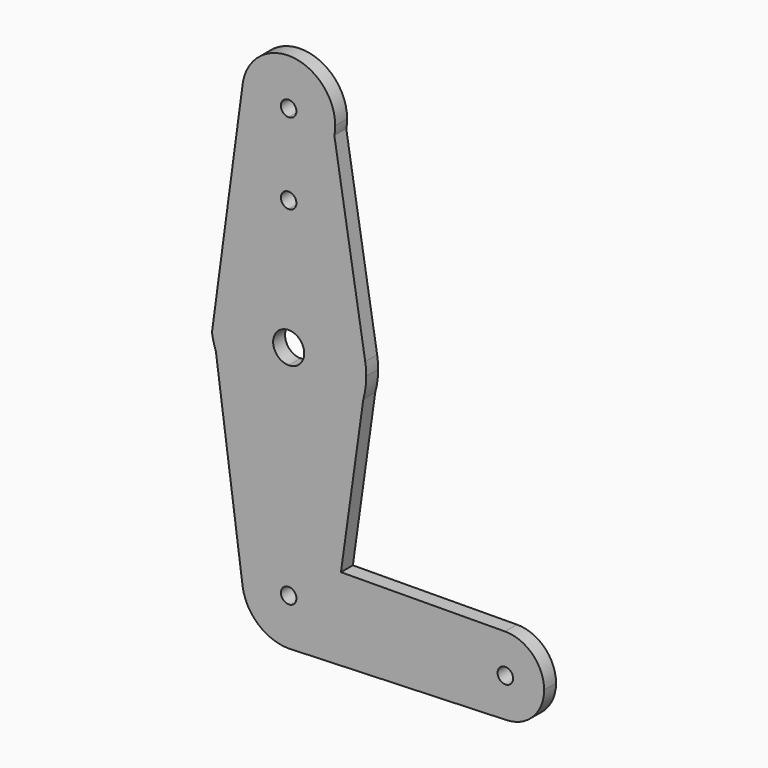
from build123d import *

# Parameters (mm, degrees)
F1_DEPTH = 3.048


with BuildPart() as f1:
    # F0 (on Front) → F1 (new body)
    with BuildSketch(Plane.XZ):
        with BuildLine():
            Line((0, 28.1219437212), (0, 33.5548328109))
            ThreePointArc((0, 33.5548328109), (-7.0011965198, 36.6215921611), (-9.4940497557, 43.8470643509))
            Line((-9.4940497557, 43.8470643509), (-14.5120441123, 6.4355419883))
            ThreePointArc((-14.5120441123, 6.4355419883), (-8.655963145, 13.3075139313), (0, 15.875))
            Line((0, 15.875), (0, 24.9469437212))
            ThreePointArc((0, 24.9469437212), (-1.5875, 26.5344437212), (0, 28.1219437212))
        make_face()
        with BuildLine():
            ThreePointArc((-9.4940497557, 43.8470643509), (-7.0011965198, 36.6215921611), (0, 33.5548328109))
            ThreePointArc((0, 33.5548328109), (6.055219513, 35.7272862011), (9.3483010398, 41.2536639606))
            ThreePointArc((9.3483010398, 41.2536639606), (9.480722346, 42.1624840233), (9.525, 43.0798328109))
            ThreePointArc((9.525, 43.0798328109), (0.3839277776, 52.5970921045), (-9.4940497557, 43.8470643509))
        make_face()
        with BuildLine():
            ThreePointArc((1.5875, 43.0798328109), (1.1225320151, 41.9573007958), (0, 41.4923328109))
            ThreePointArc((0, 41.4923328109), (-1.1225320151, 44.2023648261), (1.5875, 43.0798328109))
        make_face(mode=Mode.SUBTRACT)
        with BuildLine():
            ThreePointArc((9.3483010398, 41.2536639606), (6.055219513, 35.7272862011), (0, 33.5548328109))
            Line((0, 33.5548328109), (0, 28.1219437212))
            ThreePointArc((0, 28.1219437212), (1.1225320151, 27.6569757363), (1.5875, 26.5344437212))
            ThreePointArc((1.5875, 26.5344437212), (1.1225320151, 25.411911706), (0, 24.9469437212))
            Line((0, 24.9469437212), (0, 15.875))
            ThreePointArc((0, 15.875), (10.2809992556, 12.0961431583), (15.6674568575, 2.558597393))
            Line((15.6674568575, 2.558597393), (9.3483010398, 41.2536639606))
        make_face()
        with BuildLine():
            ThreePointArc((15.875, 0), (15.8230291445, 1.2835005625), (15.6674568575, 2.558597393))
            ThreePointArc((15.6674568575, 2.558597393), (10.2809992556, 12.0961431583), (0, 15.875))
            Line((0, 15.875), (0, 3.175))
            ThreePointArc((0, 3.175), (2.2450640303, 2.2450640303), (3.175, 0))
            ThreePointArc((3.175, 0), (2.2450640303, -2.2450640303), (0, -3.175))
            Line((0, -3.175), (0, -15.875))
            ThreePointArc((0, -15.875), (9.5773172553, -12.6605931611), (15.2761596654, -4.3190937564))
            ThreePointArc((15.2761596654, -4.3190937564), (15.7245772549, -2.1802053013), (15.875, 0))
        make_face()
        with BuildLine():
            ThreePointArc((0, 15.875), (-8.655963145, 13.3075139313), (-14.5120441123, 6.4355419883))
            Line((-14.5120441123, 6.4355419883), (-15.6949904948, -2.3838830444))
            ThreePointArc((-15.6949904948, -2.3838830444), (-15.3752760195, -3.951773314), (-14.8993476116, -5.4795132768))
            ThreePointArc((-14.8993476116, -5.4795132768), (-9.0837313845, -13.0192722198), (0, -15.875))
            Line((0, -15.875), (0, -3.175))
            ThreePointArc((0, -3.175), (-3.175, 0), (0, 3.175))
            Line((0, 3.175), (0, 15.875))
        make_face()
        with BuildLine():
            ThreePointArc((0, -15.875), (-9.0837313845, -13.0192722198), (-14.8993476116, -5.4795132768))
            Line((-14.8993476116, -5.4795132768), (-9.4394359543, -45.9385966374))
            ThreePointArc((-9.4394359543, -45.9385966374), (-7.1714354085, -38.3960912017), (0, -35.1397544709))
            Line((0, -35.1397544709), (0, -15.875))
        make_face()
        with BuildLine():
            Line((10.6975523741, -36.9681615729), (15.2761596654, -4.3190937564))
            ThreePointArc((15.2761596654, -4.3190937564), (9.5773172553, -12.6605931611), (0, -15.875))
            Line((0, -15.875), (0, -35.1397544709))
            ThreePointArc((0, -35.1397544709), (2.9798902503, -35.6178832384), (5.660615933, -37.0042680464))
            Line((5.660615933, -37.0042680464), (10.6975523741, -36.9681615729))
        make_face()
        with BuildLine():
            ThreePointArc((5.660615933, -37.0042680464), (2.9798902503, -35.6178832384), (0, -35.1397544709))
            Line((0, -35.1397544709), (0, -43.0772544709))
            ThreePointArc((0, -43.0772544709), (1.1225320151, -43.5422224557), (1.5875, -44.6647544709))
            Line((1.5875, -44.6647544709), (9.525, -44.6647544709))
            ThreePointArc((9.525, -44.6647544709), (8.5042046001, -40.374751077), (5.660615933, -37.0042680464))
        make_face()
        with BuildLine():
            ThreePointArc((0, -35.1397544709), (-7.1714354085, -38.3960912017), (-9.4394359543, -45.9385966374))
            ThreePointArc((-9.4394359543, -45.9385966374), (-6.2686632691, -51.8361898794), (0, -54.1897544709))
            Line((0, -54.1897544709), (0.6791137982, -54.1655138852))
            ThreePointArc((0.6791137982, -54.1655138852), (6.9711614501, -51.155404133), (9.525, -44.6647544709))
            Line((9.525, -44.6647544709), (1.5875, -44.6647544709))
            ThreePointArc((1.5875, -44.6647544709), (-1.1225320151, -45.787286486), (0, -43.0772544709))
            Line((0, -43.0772544709), (0, -35.1397544709))
        make_face()
        with BuildLine():
            Line((9.6182052834, -44.6647544709), (10.6975523741, -36.9681615729))
            Line((10.6975523741, -36.9681615729), (5.660615933, -37.0042680464))
            ThreePointArc((5.660615933, -37.0042680464), (8.5042046001, -40.374751077), (9.525, -44.6647544709))
            Line((9.525, -44.6647544709), (9.6182052834, -44.6647544709))
        make_face()
        with BuildLine():
            Line((44.2762012087, -36.7274583976), (10.6975523741, -36.9681615729))
            Line((10.6975523741, -36.9681615729), (9.6182052834, -44.6647544709))
            Line((9.6182052834, -44.6647544709), (36.3955984465, -44.6647544709))
            ThreePointArc((36.3955984465, -44.6647544709), (38.7003580799, -39.0722467854), (44.2762012087, -36.7274583976))
        make_face()
        with BuildLine():
            Line((36.3955984465, -44.6647544709), (9.6182052834, -44.6647544709))
            Line((9.6182052834, -44.6647544709), (9.525, -44.6647544709))
            ThreePointArc((9.525, -44.6647544709), (6.9711614501, -51.155404133), (0.6791137982, -54.1655138852))
            Line((0.6791137982, -54.1655138852), (44.6162427329, -52.5972027413))
            ThreePointArc((44.6162427329, -52.5972027413), (38.8214540242, -50.3766440016), (36.3955984465, -44.6647544709))
        make_face()
        with BuildLine():
            ThreePointArc((52.2705984465, -44.6647544709), (49.925606132, -39.0320141043), (44.2762012087, -36.7274583976))
            ThreePointArc((44.2762012087, -36.7274583976), (38.7003580799, -39.0722467854), (36.3955984465, -44.6647544709))
            ThreePointArc((36.3955984465, -44.6647544709), (38.8214540242, -50.3766440016), (44.6162427329, -52.5972027413))
            ThreePointArc((44.6162427329, -52.5972027413), (50.0449879773, -50.1763988932), (52.2705984465, -44.6647544709))
        make_face()
        with BuildLine():
            ThreePointArc((45.9205984465, -44.6647544709), (44.3330984465, -46.2522544709), (42.7455984465, -44.6647544709))
            ThreePointArc((42.7455984465, -44.6647544709), (44.3330984465, -43.0772544709), (45.9205984465, -44.6647544709))
        make_face(mode=Mode.SUBTRACT)
    extrude(amount=F1_DEPTH)


solid = f1.part
